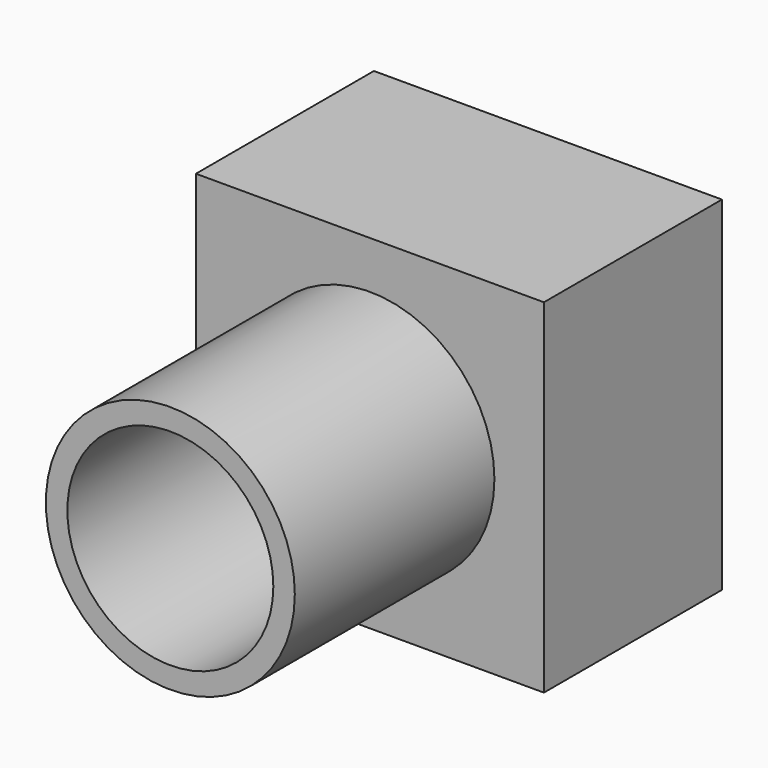
from build123d import *

# Parameters (mm, degrees)
F0_W     = 108.067252
F0_H     = 106.717602
F0_R     = 38.656072
F1_DEPTH = 69.088
F0_R_2   = 31.983046
F2_DEPTH = 146.558


with BuildPart() as f1:
    # F0 (on Front) → F1 (new body)
    with BuildSketch(Plane.XZ):
        Rectangle(F0_W, F0_H)
        Circle(F0_R, mode=Mode.SUBTRACT)
    extrude(amount=F1_DEPTH)

    # F0 (on Front) → F2 (join)
    with BuildSketch(Plane.XZ):
        Circle(F0_R)
        Circle(F0_R_2, mode=Mode.SUBTRACT)
    extrude(amount=F2_DEPTH)


solid = f1.part
